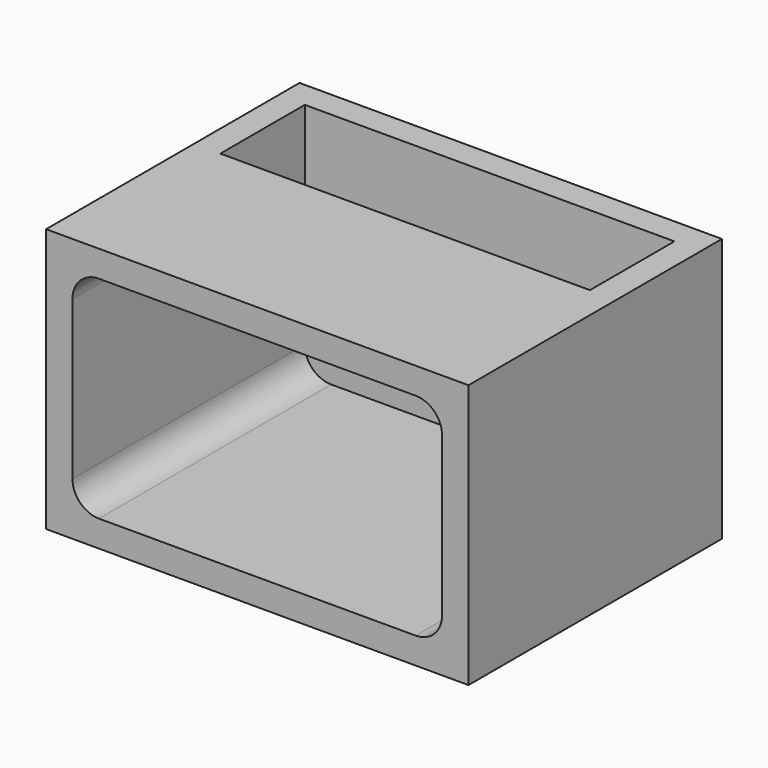
from build123d import *

# Parameters (mm, degrees)
F0_W      = 101.6
F0_H      = 76.2
F1_DEPTH  = 63.5
F3_DEPTH  = 69.85
F4_W      = 88.9
F4_H      = 25.4
F5_DEPTH  = 25.4
F7_DEPTH  = 25.4
F8_W      = 88.9
F8_H      = 3.175
F9_DEPTH  = 31.75
F10_W     = 88.9
F10_H     = 6.35
F11_DEPTH = 19.05
F12_W     = 82.55
F12_H     = 7.62
F13_DEPTH = 25.4


with BuildPart() as f1:
    # F0 (on Top) → F1 (new body)
    with BuildSketch(Plane.XY):
        with Locations((-49.642408, -6.194344)):
            Rectangle(F0_W, F0_H)
    extrude(amount=F1_DEPTH)

    # F2 (on face) → F3 (cut)
    with BuildSketch(Plane.XZ.offset(44.294344)):
        with BuildLine():
            Line((-11.542408, 57.15), (-87.742408, 57.15))
            ThreePointArc((-87.742408, 57.15), (-92.232536, 55.290128), (-94.092408, 50.8))
            Line((-94.092408, 50.8), (-94.092408, 12.7))
            ThreePointArc((-94.092408, 12.7), (-92.232536, 8.209872), (-87.742408, 6.35))
            Line((-87.742408, 6.35), (-11.542408, 6.35))
            ThreePointArc((-11.542408, 6.35), (-7.05228, 8.209872), (-5.192408, 12.7))
            Line((-5.192408, 12.7), (-5.192408, 50.8))
            ThreePointArc((-5.192408, 50.8), (-7.05228, 55.290128), (-11.542408, 57.15))
        make_face()
    extrude(amount=-F3_DEPTH, mode=Mode.SUBTRACT)

    # F4 (on face) → F5 (cut)
    with BuildSketch(Plane.XY.offset(63.5)):
        with Locations((-49.642408, 12.855656)):
            Rectangle(F4_W, F4_H)
    extrude(amount=-F5_DEPTH, mode=Mode.SUBTRACT)

    # F6 (on face) → F7 (cut)
    with BuildSketch(Plane.XZ.offset(-25.555656)):
        with BuildLine():
            Line((-43.292408, 29.21), (-55.992408, 29.21))
            ThreePointArc((-55.992408, 29.21), (-60.482536, 27.350128), (-62.342408, 22.86))
            Line((-62.342408, 22.86), (-62.342408, 19.05))
            ThreePointArc((-62.342408, 19.05), (-60.482536, 14.559872), (-55.992408, 12.7))
            Line((-55.992408, 12.7), (-43.292408, 12.7))
            ThreePointArc((-43.292408, 12.7), (-38.80228, 14.559872), (-36.942408, 19.05))
            Line((-36.942408, 19.05), (-36.942408, 22.86))
            ThreePointArc((-36.942408, 22.86), (-38.80228, 27.350128), (-43.292408, 29.21))
        make_face()
    extrude(amount=-F7_DEPTH, mode=Mode.SUBTRACT)

    # F8 (on face) → F9 (join)
    with BuildSketch(Plane.XZ.offset(-25.555656)):
        with Locations((-49.642408, 42.8625)):
            Rectangle(F8_W, F8_H)
    extrude(amount=F9_DEPTH)

    # F10 (on face) → F11 (join)
    with BuildSketch(Plane.XY.offset(63.5)):
        with Locations((-49.642408, -3.019344)):
            Rectangle(F10_W, F10_H)
    extrude(amount=-F11_DEPTH)

    # F12 (on face) → F13 (cut)
    with BuildSketch(Plane.XY.offset(44.45)):
        with Locations((-49.642408, 7.140656)):
            Rectangle(F12_W, F12_H)
    extrude(amount=-F13_DEPTH, mode=Mode.SUBTRACT)


solid = f1.part
